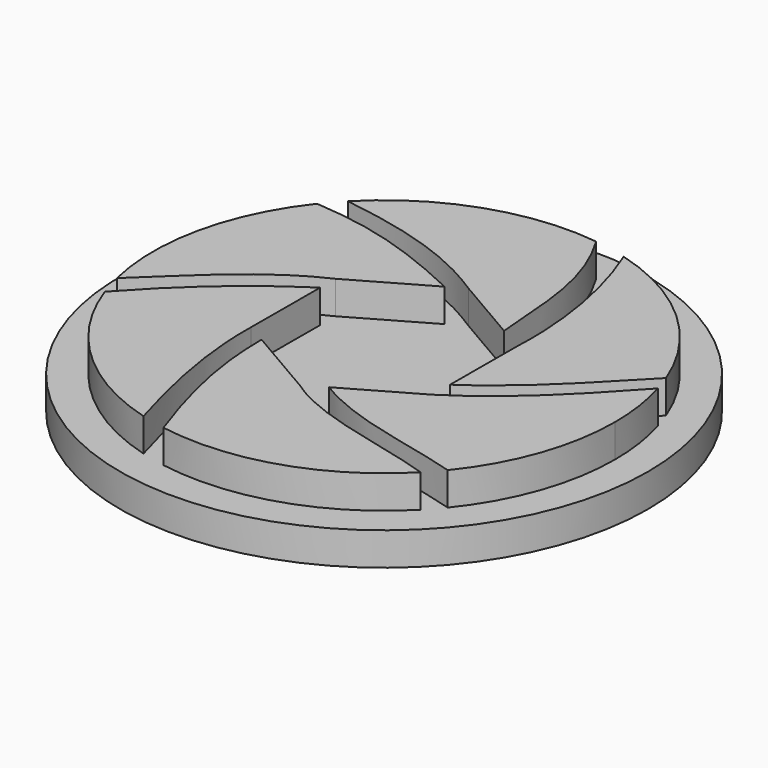
from build123d import *

# Parameters (mm, degrees)
F0_R     = 12.7
F1_DEPTH = 3.175
F2_R     = 12.7
F3_DEPTH = 1.5875


with BuildPart() as f1:
    # F0 (on Top) → F1 (new body)
    with BuildSketch(Plane.XY):
        Circle(F0_R)
    extrude(amount=F1_DEPTH)

    # F2 (on face) → F3 (cut)
    with BuildSketch(Plane.XY.offset(3.175)):
        Circle(F2_R)
        with BuildLine():
            ThreePointArc((10.658723829, 3.1431294257), (10.9984709119, 1.5878582588), (11.1125, 0))
            ThreePointArc((11.1125, 0), (10.4775845877, -3.7024150846), (8.6453904461, -6.9817533818))
            ThreePointArc((8.6453904461, -6.9817533818), (8.3112794178, -7.3763331466), (7.9591763141, -7.7549447871))
            ThreePointArc((7.9591763141, -7.7549447871), (3.4491264231, -10.5636728067), (-1.8494000494, -10.9575259848))
            ThreePointArc((-1.8494000494, -10.9575259848), (-2.4388819255, -10.8415640571), (-3.0212353124, -10.6939138503))
            ThreePointArc((-3.0212353124, -10.6939138503), (-7.6061700268, -8.101471087), (-10.482324205, -3.6889748591))
            ThreePointArc((-10.482324205, -3.6889748591), (-10.665356868, -3.1205478892), (-10.8175898956, -2.5431093373))
            ThreePointArc((-10.8175898956, -2.5431093373), (-10.8488341103, 2.4063363639), (-8.7278420108, 6.8784031639))
            ThreePointArc((-8.7278420108, 6.8784031639), (-8.3521352503, 7.3300404508), (-7.9530853669, 7.7611912357))
            ThreePointArc((-7.9530853669, 7.7611912357), (-3.6681599101, 10.4896262624), (1.3832928535, 11.0260671652))
            ThreePointArc((1.3832928535, 11.0260671652), (2.176303147, 10.8973097993), (2.9579383656, 10.7115945067))
            ThreePointArc((2.9579383656, 10.7115945067), (7.4635295845, 8.2330664027), (10.3708922379, 3.9915223212))
            ThreePointArc((10.3708922379, 3.9915223212), (10.5233611839, 3.5702276739), (10.658723829, 3.1431294257))
        make_face(mode=Mode.SUBTRACT)
        Polygon((0.9544174306, -4.4978841302), (4.3684629994, -2.5431093373), (4.3722254567, -1.496180084), (4.3866287904, 2.5116452644), (3.221006159, 3.1902147745), (0.0181657909, 5.0547546016), (-0.7709948655, 4.6029061047), (-4.3684629994, 2.5431093373), (-4.3717628465, 1.6249045005), (-4.3866287904, -2.5116452644), (-3.4494294564, -3.0572377021), (-0.0181657909, -5.0547546016), align=None)
        with BuildLine():
            add(Edge.make_bspline(
                [(2.9579383656, 10.7115945067), (4.1142658453, 7.8969584627), (4.5107973736, 4.9418471747), (4.3866287904, 2.5116452644)],
                knots=[0, 0, 0, 0, 8.3234802761, 8.3234802761, 8.3234802761, 8.3234802761], degree=3))
            ThreePointArc((2.9579383656, 10.7115945067), (2.176303147, 10.8973097993), (1.3832928535, 11.0260671652))
            add(Edge.make_bspline(
                [(1.3832928535, 11.0260671652), (3.1633162871, 8.0800279975), (2.9579383656, 5.5116703447), (3.221006159, 3.1902147745)],
                knots=[0, 0, 0, 0, 8.0484640076, 8.0484640076, 8.0484640076, 8.0484640076], degree=3))
            Line((3.221006159, 3.1902147745), (4.3866287904, 2.5116452644))
        make_face()
        with BuildLine():
            ThreePointArc((-3.0212353124, -10.6939138503), (-2.4388819255, -10.8415640571), (-1.8494000494, -10.9575259848))
            add(Edge.make_bspline(
                [(-1.8494000494, -10.9575259848), (-2.7035912499, -8.5331965238), (-3.4494294564, -6.0197356964), (-3.4494294564, -3.0572377021)],
                knots=[0, 0, 0, 0, 8.0606853959, 8.0606853959, 8.0606853959, 8.0606853959], degree=3))
            Line((-3.4494294564, -3.0572377021), (-4.3866287904, -2.5116452644))
            add(Edge.make_bspline(
                [(-3.0212353124, -10.6939138503), (-3.8406192325, -7.9840868711), (-4.4567375444, -5.0267190672), (-4.3866287904, -2.5116452644)],
                knots=[0, 0, 0, 0, 8.2954094873, 8.2954094873, 8.2954094873, 8.2954094873], degree=3))
        make_face()
        with BuildLine():
            ThreePointArc((-10.8175898956, -2.5431093373), (-10.665356868, -3.1205478892), (-10.482324205, -3.6889748591))
            add(Edge.make_bspline(
                [(-10.482324205, -3.6889748591), (-8.6052678525, -1.6175307101), (-6.8379997584, 0), (-4.3717628465, 1.6249045005)],
                knots=[0, 0, 0, 0, 8.0979178784, 8.0979178784, 8.0979178784, 8.0979178784], degree=3))
            Line((-4.3717628465, 1.6249045005), (-4.3684629994, 2.5431093373))
            add(Edge.make_bspline(
                [(-10.8175898956, -2.5431093373), (-9.1512324774, -1.0404492055), (-7.0855091326, 1.2987629743), (-4.3684629994, 2.5431093373)],
                knots=[0, 0, 0, 0, 8.2134559186, 8.2134559186, 8.2134559186, 8.2134559186], degree=3))
        make_face()
        with BuildLine():
            add(Edge.make_bspline(
                [(-7.9530853669, 7.7611912357), (-4.446237348, 7.2667929344), (-2.1372254965, 6.4550389593), (0.0181657909, 5.0547546016)],
                knots=[0, 0, 0, 0, 8.4181734525, 8.4181734525, 8.4181734525, 8.4181734525], degree=3))
            ThreePointArc((-7.9530853669, 7.7611912357), (-8.3521352503, 7.3300404508), (-8.7278420108, 6.8784031639))
            add(Edge.make_bspline(
                [(-8.7278420108, 6.8784031639), (-5.8984421194, 6.6859107465), (-3.8122152153, 6.0294846242), (-0.7709948655, 4.6029061047)],
                knots=[0, 0, 0, 0, 8.2758264457, 8.2758264457, 8.2758264457, 8.2758264457], degree=3))
            Line((-0.7709948655, 4.6029061047), (0.0181657909, 5.0547546016))
        make_face()
        with BuildLine():
            ThreePointArc((7.9591763141, -7.7549447871), (8.3112794178, -7.3763331466), (8.6453904461, -6.9817533818))
            add(Edge.make_bspline(
                [(8.6453904461, -6.9817533818), (6.1183535246, -6.215270692), (3.3286891114, -5.96146335), (0.9544174306, -4.4978841302)],
                knots=[0, 0, 0, 0, 8.0821205376, 8.0821205376, 8.0821205376, 8.0821205376], degree=3))
            Line((0.9544174306, -4.4978841302), (-0.0181657909, -5.0547546016))
            add(Edge.make_bspline(
                [(7.9591763141, -7.7549447871), (5.4126778469, -6.8943584803), (2.1690848592, -6.5974611149), (-0.0181657909, -5.0547546016)],
                knots=[0, 0, 0, 0, 8.4219364815, 8.4219364815, 8.4219364815, 8.4219364815], degree=3))
        make_face()
        with BuildLine():
            add(Edge.make_bspline(
                [(10.658723829, 3.1431294257), (8.7281949818, 1.0112409946), (6.7566167563, -1.0424868669), (4.3684629994, -2.5431093373)],
                knots=[0, 0, 0, 0, 8.4794276088, 8.4794276088, 8.4794276088, 8.4794276088], degree=3))
            ThreePointArc((10.658723829, 3.1431294257), (10.5233611839, 3.5702276739), (10.3708922379, 3.9915223212))
            add(Edge.make_bspline(
                [(10.3708922379, 3.9915223212), (8.5074305534, 2.0388548728), (6.5921674386, 0), (4.3722254567, -1.496180084)],
                knots=[0, 0, 0, 0, 8.130121822, 8.130121822, 8.130121822, 8.130121822], degree=3))
            Line((4.3722254567, -1.496180084), (4.3684629994, -2.5431093373))
        make_face()
    extrude(amount=-F3_DEPTH, mode=Mode.SUBTRACT)


solid = f1.part
